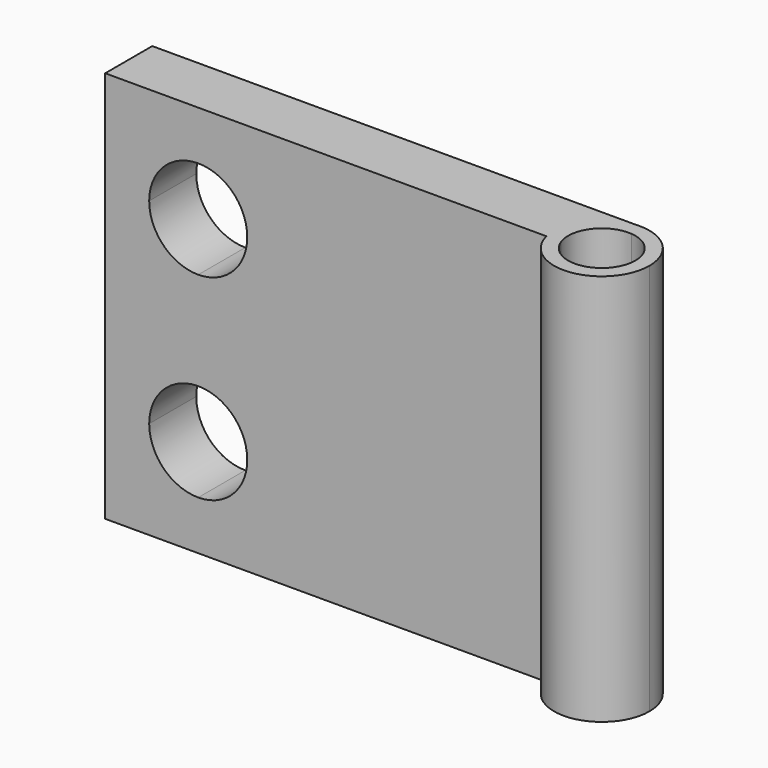
from build123d import *

# Parameters (mm, degrees)
F1_DEPTH = 20
F3_DEPTH = 25
F4_DEPTH = 25


with BuildPart() as f1:
    # F0 (on Top) → F1 (new body)
    with BuildSketch(Plane.XY):
        with BuildLine():
            ThreePointArc((-2.5275626504, 0), (-2.6688577349, 0.0041097327), (-2.8101528193, 0))
            Line((-2.8101528193, 0), (-2.5275626504, 0))
        make_face()
        with BuildLine():
            ThreePointArc((-0.2378978583, -2.4268501438), (-0.900659697, -0.7586050718), (-2.5275626504, 0))
            Line((-2.5275626504, 0), (-2.5275626504, -0.7201090608))
            ThreePointArc((-2.5275626504, -0.7201090608), (-1.4089155682, -1.2669039546), (-0.9562779775, -2.4268501438))
            ThreePointArc((-0.9562779775, -2.4268501438), (-2.3780599484, -4.1145604485), (-4.2826819718, -3))
            Line((-4.2826819718, -3), (-5.0312855462, -3))
            ThreePointArc((-5.0312855462, -3), (-2.3802414664, -4.8406161994), (-0.2378978583, -2.4268501438))
        make_face()
        with BuildLine():
            Line((-2.5275626504, 0), (-2.8101528193, 0))
            ThreePointArc((-2.8101528193, 0), (-4.6226123471, -0.9803340406), (-5.0312855462, -3))
            Line((-5.0312855462, -3), (-4.2826819718, -3))
            ThreePointArc((-4.2826819718, -3), (-4.0258990754, -1.3821644373), (-2.5275626504, -0.7201090608))
            Line((-2.5275626504, -0.7201090608), (-2.5275626504, 0))
        make_face()
        with BuildLine():
            Line((-2.8101528193, 0), (-27.5275626504, 0))
            Line((-27.5275626504, 0), (-27.5275626504, -3))
            Line((-27.5275626504, -3), (-5.0312855462, -3))
            ThreePointArc((-5.0312855462, -3), (-4.6226123471, -0.9803340406), (-2.8101528193, 0))
        make_face()
    extrude(amount=F1_DEPTH)

    # F2 (on face) → F3 (cut)
    with BuildSketch(Plane(origin=(0, 0, 0), x_dir=(-1, 0, 0), z_dir=(0, 1, 0))):
        with BuildLine():
            Line((22.7848533541, 5), (22.7848533541, 2.5))
            ThreePointArc((22.7848533541, 2.5), (24.5526203071, 3.232233047), (25.2848533541, 5))
            ThreePointArc((25.2848533541, 5), (24.5526203071, 6.767766953), (22.7848533541, 7.5))
            Line((22.7848533541, 7.5), (22.7848533541, 5))
        make_face()
        with BuildLine():
            Line((22.7848533541, 15), (22.7848533541, 12.5))
            ThreePointArc((22.7848533541, 12.5), (24.5526203071, 13.232233047), (25.2848533541, 15))
            ThreePointArc((25.2848533541, 15), (24.5526203071, 16.767766953), (22.7848533541, 17.5))
            Line((22.7848533541, 17.5), (22.7848533541, 15))
        make_face()
        with BuildLine():
            ThreePointArc((22.7848533541, 17.5), (20.2848533541, 15), (22.7848533541, 12.5))
            Line((22.7848533541, 12.5), (22.7848533541, 15))
            Line((22.7848533541, 15), (22.7848533541, 17.5))
        make_face()
    extrude(amount=-F3_DEPTH, mode=Mode.SUBTRACT)

    # F2 (on face) → F4 (cut)
    with BuildSketch(Plane(origin=(0, 0, 0), x_dir=(-1, 0, 0), z_dir=(0, 1, 0))):
        with BuildLine():
            ThreePointArc((22.7848533541, 7.5), (20.2848533541, 5), (22.7848533541, 2.5))
            Line((22.7848533541, 2.5), (22.7848533541, 5))
            Line((22.7848533541, 5), (22.7848533541, 7.5))
        make_face()
    extrude(amount=-F4_DEPTH, mode=Mode.SUBTRACT)


solid = f1.part
